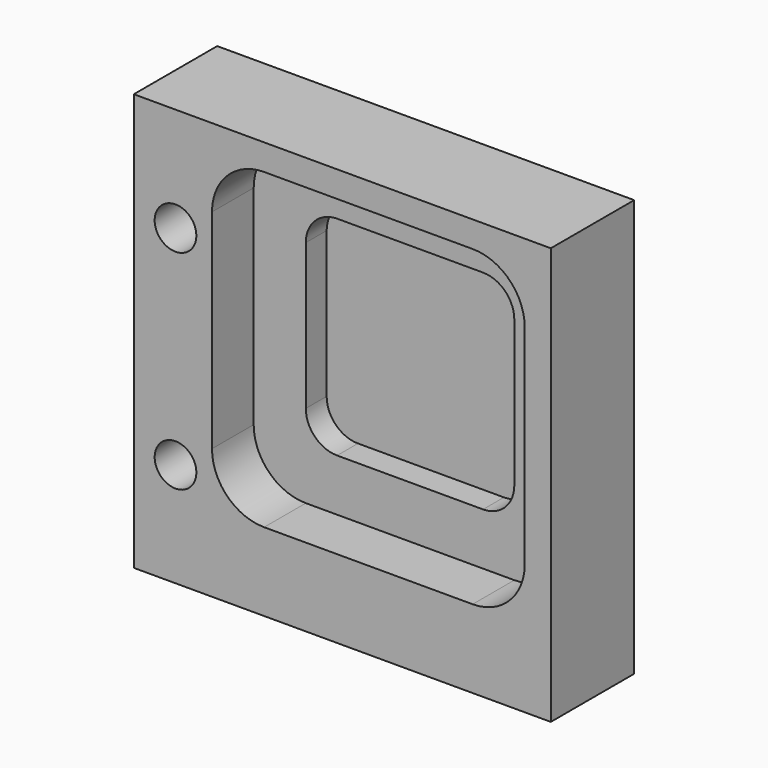
from build123d import *

# Parameters (mm, degrees)
F0_W     = 80
F0_H     = 80
F1_DEPTH = 20
F2_R     = 4
F3_DEPTH = 15
F5_DEPTH = 10
F7_DEPTH = 5


with BuildPart() as f1:
    # F0 (on Front) → F1 (new body)
    with BuildSketch(Plane.XZ):
        Rectangle(F0_W, F0_H)
    extrude(amount=F1_DEPTH)

    # F2 (on face) → F3 (cut)
    with BuildSketch(Plane.XZ.offset(20)):
        with Locations((-32, 20)):
            Circle(F2_R)
        with Locations((-32, -20)):
            Circle(F2_R)
    extrude(amount=-F3_DEPTH, mode=Mode.SUBTRACT)

    # F4 (on face) → F5 (cut)
    with BuildSketch(Plane.XZ.offset(20)):
        with BuildLine():
            Line((-15, -25), (25, -25))
            ThreePointArc((25, -25), (32.071068, -22.071068), (35, -15))
            Line((35, -15), (35, 25))
            ThreePointArc((35, 25), (32.071068, 32.071068), (25, 35))
            Line((25, 35), (-15, 35))
            ThreePointArc((-15, 35), (-22.071068, 32.071068), (-25, 25))
            Line((-25, 25), (-25, -15))
            ThreePointArc((-25, -15), (-22.071068, -22.071068), (-15, -25))
        make_face()
    extrude(amount=-F5_DEPTH, mode=Mode.SUBTRACT)

    # F6 (on face) → F7 (cut)
    with BuildSketch(Plane.XZ.offset(10)):
        with BuildLine():
            Line((19, 25), (-9, 25))
            ThreePointArc((-9, 25), (-13.242641, 23.242641), (-15, 19))
            Line((-15, 19), (-15, -9))
            ThreePointArc((-15, -9), (-13.242641, -13.242641), (-9, -15))
            Line((-9, -15), (19, -15))
            ThreePointArc((19, -15), (23.242641, -13.242641), (25, -9))
            Line((25, -9), (25, 19))
            ThreePointArc((25, 19), (23.242641, 23.242641), (19, 25))
        make_face()
    extrude(amount=-F7_DEPTH, mode=Mode.SUBTRACT)


solid = f1.part
